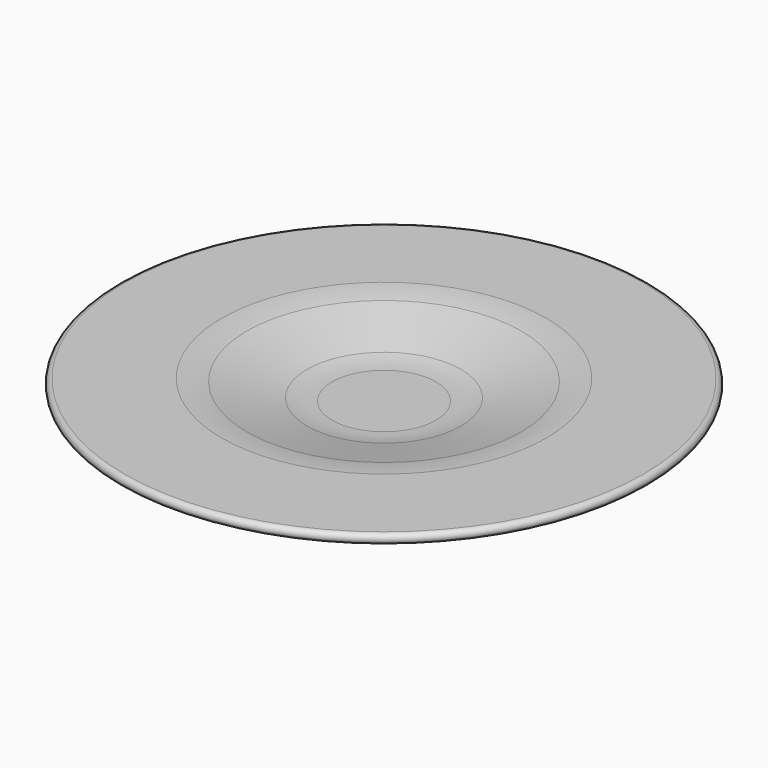
from build123d import *

# Parameters (mm, degrees)
F3_R = 25.4


with BuildPart() as f2:
    # F0 (on Front) → F2 (revolve)
    with BuildSketch(Plane.XZ):
        with BuildLine():
            Line((35.242144, 4.75648), (15.238293, 0))
            Line((15.238293, 0), (0, 0))
            Line((0, 0), (0, -2.286))
            Line((0, -2.286), (15.506336, -2.286))
            Line((15.506336, -2.286), (35.506643, 2.469638))
            Line((35.506643, 2.469638), (61.135289, 2.389061))
            ThreePointArc((61.135289, 2.389061), (62.281877, 3.528461), (61.142476, 4.675049))
            Line((61.142476, 4.675049), (35.242144, 4.75648))
        make_face()
    revolve(axis=Axis((0, 0, 4.155044), (0, 0, 1)))

    # F3
    f3_edges = [f2.edges().sort_by_distance(p)[0] for p in [
        (-35.242144, 0, 4.75648),
        (-15.238293, 0, 0),
    ]]
    fillet(f3_edges, radius=F3_R)


solid = f2.part
